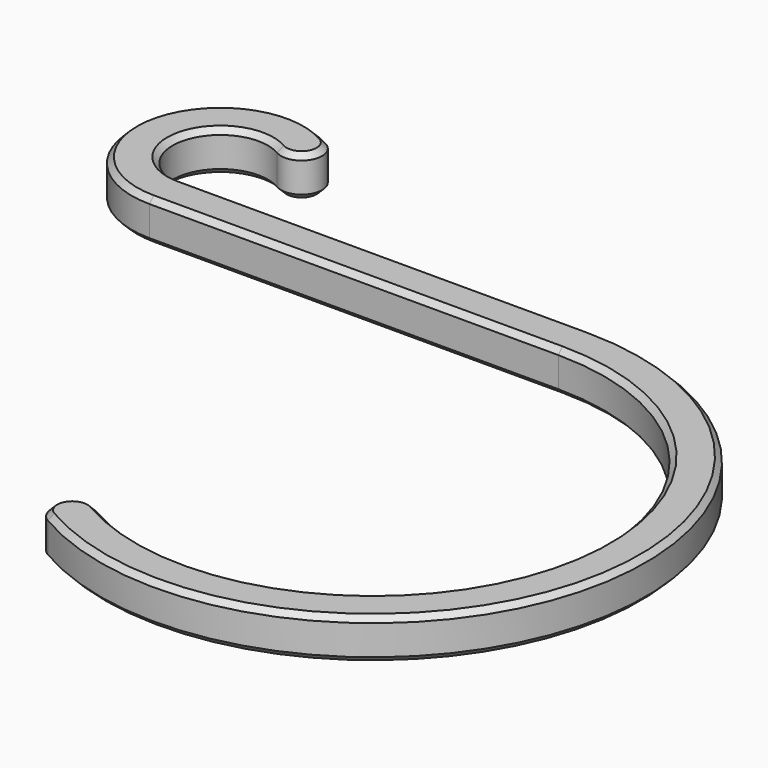
from build123d import *

# Parameters (mm, degrees)
F2_DEPTH = 3
F3_SIZE  = 0.4


with BuildPart() as f2:
    # F1 (on Top) → F2 (new body)
    with BuildSketch(Plane.XY):
        with BuildLine():
            ThreePointArc((0, 17), (16.4207390469, -4.3999237667), (-8.5, -14.7224318643))
            ThreePointArc((-8.5, -14.7224318643), (-10.5490381057, -15.27146997), (-10, -17.3205080757))
            ThreePointArc((-10, -17.3205080757), (19.3185165258, -5.1763809021), (0, 20))
            Line((0, 20), (-30, 20))
            ThreePointArc((-30, 20), (-33.380740392, 24.4058666579), (-28.25, 26.5310889132))
            ThreePointArc((-28.25, 26.5310889132), (-26.2009618943, 27.0801270189), (-26.75, 29.1291651246))
            ThreePointArc((-26.75, 29.1291651246), (-36.2785178709, 25.1823237932), (-30, 17))
            Line((-30, 17), (0, 17))
        make_face()
    extrude(amount=F2_DEPTH)

    # F3
    f3_edges = [f2.edges().sort_by_distance(p)[0] for p in [
        (-15, 17, 3),
        (-15, 17, 0),
    ]]
    chamfer(f3_edges, length=F3_SIZE)


solid = f2.part
